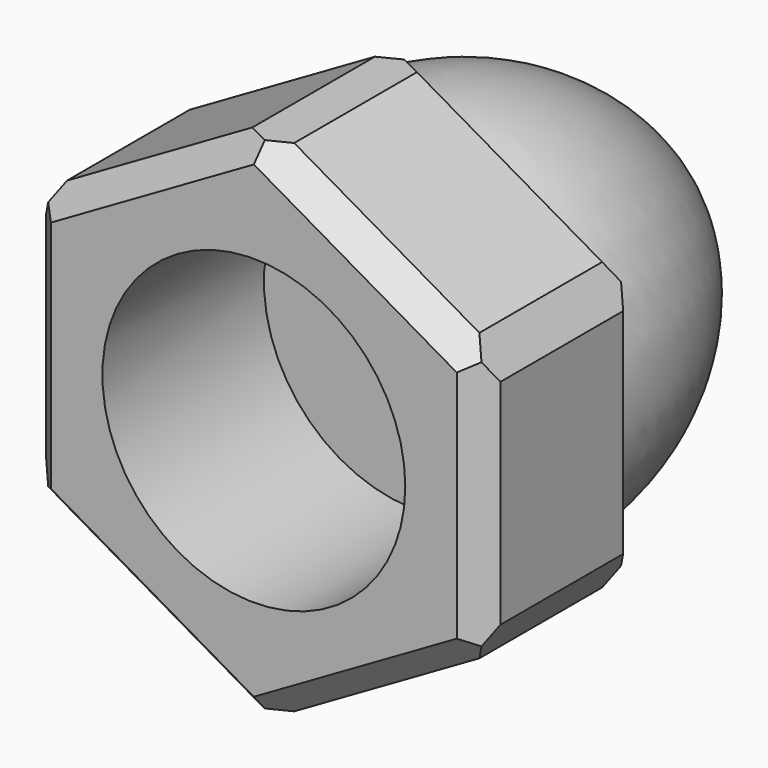
from build123d import *

# Parameters (mm, degrees)
F1_DEPTH = 3.175
F2_R     = 4.7625
F3_DEPTH = 25
F4_SIZE  = 0.762
F5_SIZE  = 0.762
F6_SIZE  = 0.762


with BuildPart() as f1:
    # F0 (on Front) → F1 (new body, symmetric)
    with BuildSketch(Plane.XZ):
        Polygon((-7.14375, 4.1244459855), (-7.14375, -4.1244459855), (0, -8.248891971), (7.14375, -4.1244459855), (7.14375, 4.1244459855), (0, 8.248891971), align=None)
    extrude(amount=F1_DEPTH, both=True)

    # F2 (on face) → F3 (cut)
    with BuildSketch(Plane.XZ.offset(3.175)):
        Circle(F2_R)
    extrude(amount=-F3_DEPTH, mode=Mode.SUBTRACT)

    # F4
    f4_edges = [f1.edges().sort_by_distance(p)[0] for p in [
        (0, 0, 8.248892),
        (7.14375, 0, 4.124446),
        (7.14375, 0, -4.124446),
        (0, 0, -8.248892),
        (-7.14375, 0, -4.124446),
        (-7.14375, 0, 4.124446),
    ]]
    chamfer(f4_edges, length=F4_SIZE)

    # F5 (call 1 of 6: OpenCascade refuses the feature's edges together)
    f5_edges = [f1.edges().sort_by_distance(p)[0] for p in [
        (-3.571875, -3.175, -6.186669),
    ]]
    chamfer(f5_edges, length=F5_SIZE)

    # F5#2 (call 2 of 6)
    f5_2_edges = [f1.edges().sort_by_distance(p)[0] for p in [
        (3.571875, -3.175, -6.186669),
    ]]
    chamfer(f5_2_edges, length=F5_SIZE)

    # F5#3 (call 3 of 6)
    f5_3_edges = [f1.edges().sort_by_distance(p)[0] for p in [
        (7.14375, -3.175, 0),
    ]]
    chamfer(f5_3_edges, length=F5_SIZE)

    # F5#4 (call 4 of 6)
    f5_4_edges = [f1.edges().sort_by_distance(p)[0] for p in [
        (3.571875, -3.175, 6.186669),
    ]]
    chamfer(f5_4_edges, length=F5_SIZE)

    # F5#5 (call 5 of 6)
    f5_5_edges = [f1.edges().sort_by_distance(p)[0] for p in [
        (-3.571875, -3.175, 6.186669),
    ]]
    chamfer(f5_5_edges, length=F5_SIZE)

    # F5#6 (call 6 of 6)
    f5_6_edges = [f1.edges().sort_by_distance(p)[0] for p in [
        (-7.14375, -3.175, 0),
    ]]
    chamfer(f5_6_edges, length=F5_SIZE)

    # F6 (call 1 of 6: OpenCascade refuses the feature's edges together)
    f6_edges = [f1.edges().sort_by_distance(p)[0] for p in [
        (-3.571875, 3.175, -6.186669),
    ]]
    chamfer(f6_edges, length=F6_SIZE)

    # F6#2 (call 2 of 6)
    f6_2_edges = [f1.edges().sort_by_distance(p)[0] for p in [
        (3.571875, 3.175, -6.186669),
    ]]
    chamfer(f6_2_edges, length=F6_SIZE)

    # F6#3 (call 3 of 6)
    f6_3_edges = [f1.edges().sort_by_distance(p)[0] for p in [
        (7.14375, 3.175, 0),
    ]]
    chamfer(f6_3_edges, length=F6_SIZE)

    # F6#4 (call 4 of 6)
    f6_4_edges = [f1.edges().sort_by_distance(p)[0] for p in [
        (3.571875, 3.175, 6.186669),
    ]]
    chamfer(f6_4_edges, length=F6_SIZE)

    # F6#5 (call 5 of 6)
    f6_5_edges = [f1.edges().sort_by_distance(p)[0] for p in [
        (-3.571875, 3.175, 6.186669),
    ]]
    chamfer(f6_5_edges, length=F6_SIZE)

    # F6#6 (call 6 of 6)
    f6_6_edges = [f1.edges().sort_by_distance(p)[0] for p in [
        (-7.14375, 3.175, 0),
    ]]
    chamfer(f6_6_edges, length=F6_SIZE)

    # F7 (on Top) → F8 (revolve)
    with BuildSketch(Plane.XY):
        with BuildLine():
            Line((0, 12.7), (0, 3.175))
            Line((0, 3.175), (6.35, 3.175))
            ThreePointArc((6.35, 3.175), (4.8788606959, 9.0734071306), (0, 12.7))
        make_face()
    revolve(axis=Axis((0, 7.9375, 0), (0, 1, 0)))


solid = f1.part
